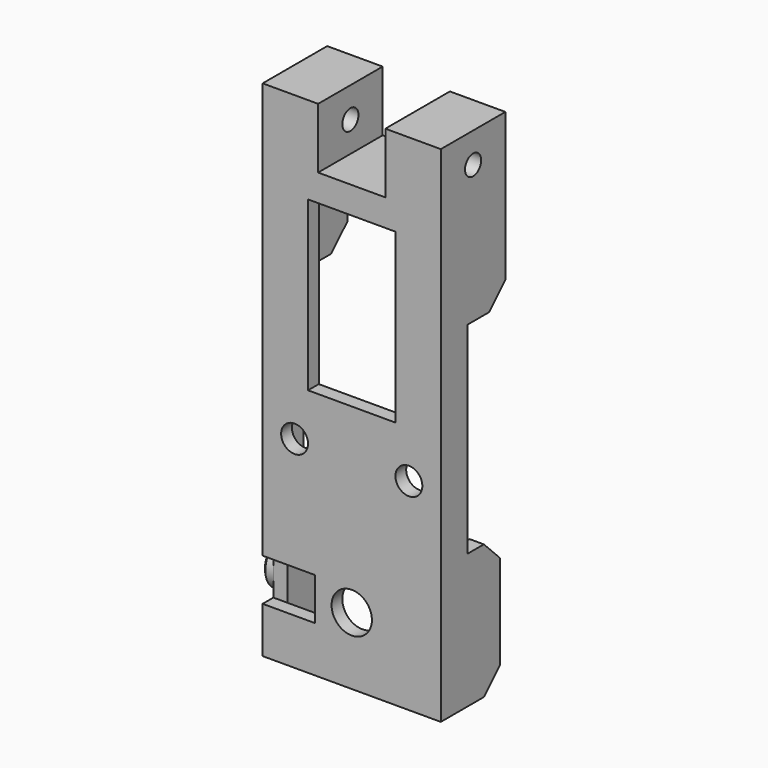
from build123d import *

# Parameters (mm, degrees)
SKETCH_R        = 2
SKETCH_R_2      = 3
PAD_DEPTH       = 2
SKETCH001_W     = 2.1
SKETCH001_H     = 20
PAD001_DEPTH    = 9
CHAMFER_SIZE    = 3
SKETCH002_W     = 13
SKETCH002_H     = 25
POCKET_DEPTH    = 2.5
SKETCH003_R     = 3.5
PAD002_DEPTH    = 1.5
SKETCH004_R     = 1.7
POCKET001_DEPTH = 3
CHAMFER001_SIZE = 0.2
CHAMFER002_SIZE = 0.3
SKETCH005_W     = 3
SKETCH005_H     = 15
PAD003_DEPTH    = 10
CHAMFER003_SIZE = 3
CHAMFER004_SIZE = 3
SKETCH006_W     = 2.1
SKETCH006_H     = 30
PAD004_DEPTH    = 3
SKETCH007_W     = 26.5
SKETCH007_H     = 12
PAD005_DEPTH    = 10
CHAMFER005_SIZE = 2
CHAMFER006_SIZE = 2
CHAMFER007_SIZE = 2
SKETCH008_W     = 10
SKETCH008_H     = 12
POCKET002_DEPTH = 9
SKETCH009_R     = 1.5
POCKET003_DEPTH = 26.501
SKETCH010_R     = 2.75
POCKET004_DEPTH = 1.7


with BuildPart() as part:
    # Sketch → Pad (new body)
    with BuildSketch(Plane.XZ):
        Polygon((-13.25, 55), (13.25, 55), (13.25, -10), (-13.25, -10), (-13.25, -3.15), (-5.5, -3.15), (-5.5, 0), (-5.5, 3.15), (-13.25, 3.15), align=None)
        with Locations((-8.5, 20)):
            Circle(SKETCH_R, mode=Mode.SUBTRACT)
        with Locations((8.5, 20)):
            Circle(SKETCH_R, mode=Mode.SUBTRACT)
        Circle(SKETCH_R_2, mode=Mode.SUBTRACT)
    extrude(amount=PAD_DEPTH)

    # Sketch001 (on Face13 of Pad) → Pad001 (join)
    with BuildSketch(Plane(origin=(0, 0, 0), x_dir=(1, 0, 0), z_dir=(0, 1, 0))):
        with Locations((-12.2, 0)):
            Rectangle(SKETCH001_W, SKETCH001_H)
        with Locations((12.2, 0)):
            Rectangle(SKETCH001_W, SKETCH001_H)
    extrude(amount=PAD001_DEPTH)

    # Chamfer
    chamfer_edges = [part.edges().sort_by_distance(p)[0] for p in [
        (-12.2, 9, -10),
        (12.2, 9, -10),
        (12.2, 9, 10),
        (-12.2, 9, 10),
    ]]
    chamfer(chamfer_edges, length=CHAMFER_SIZE)

    # Sketch002 (on Face4 of Chamfer) → Pocket (cut)
    with BuildSketch(Plane(origin=(0, 0, 0), x_dir=(1, 0, 0), z_dir=(0, 1, 0))):
        with Locations((0, -39.5)):
            Rectangle(SKETCH002_W, SKETCH002_H)
    extrude(amount=-POCKET_DEPTH, mode=Mode.SUBTRACT)

    # Sketch003 (on Face9 of Pocket) → Pad002 (join)
    with BuildSketch(Plane(origin=(-13.25, 0, 0), x_dir=(0, 0, -1), z_dir=(-1, 0, 0))):
        with Locations((0, -3.5)):
            Circle(SKETCH003_R)
    extrude(amount=PAD002_DEPTH)

    # Sketch004 (on Face35 of Pad002) → Pocket001 (cut)
    with BuildSketch(Plane(origin=(-14.75, 0, 0), x_dir=(0, 0, -1), z_dir=(-1, 0, 0))):
        with Locations((0, -3.5)):
            Circle(SKETCH004_R)
    extrude(amount=-POCKET001_DEPTH, mode=Mode.SUBTRACT)

    # Chamfer001
    chamfer001_edges = [part.edges().sort_by_distance(p)[0] for p in [
        (-14.75, 3.5, 1.7),
    ]]
    chamfer(chamfer001_edges, length=CHAMFER001_SIZE)

    # Chamfer002
    chamfer002_edges = [part.edges().sort_by_distance(p)[0] for p in [
        (-14.75, 3.5, 3.5),
    ]]
    chamfer(chamfer002_edges, length=CHAMFER002_SIZE)

    # Sketch005 (on Face17 of Chamfer002) → Pad003 (join)
    with BuildSketch(Plane(origin=(0, 0, 0), x_dir=(1, 0, 0), z_dir=(0, 1, 0))):
        with Locations((-11.75, -47.5)):
            Rectangle(SKETCH005_W, SKETCH005_H)
        with Locations((11.75, -47.5)):
            Rectangle(SKETCH005_W, SKETCH005_H)
    extrude(amount=PAD003_DEPTH)

    # Chamfer003
    chamfer003_edges = [part.edges().sort_by_distance(p)[0] for p in [
        (11.75, 10, 40),
    ]]
    chamfer(chamfer003_edges, length=CHAMFER003_SIZE)

    # Chamfer004
    chamfer004_edges = [part.edges().sort_by_distance(p)[0] for p in [
        (-11.75, 10, 40),
    ]]
    chamfer(chamfer004_edges, length=CHAMFER004_SIZE)

    # Sketch006 (on Face4 of Chamfer004) → Pad004 (join)
    with BuildSketch(Plane(origin=(0, 0, 0), x_dir=(1, 0, 0), z_dir=(0, 1, 0))):
        with Locations((-12.2, -25)):
            Rectangle(SKETCH006_W, SKETCH006_H)
        with Locations((12.2, -25)):
            Rectangle(SKETCH006_W, SKETCH006_H)
    extrude(amount=PAD004_DEPTH)

    # Sketch007 (on Face17 of Pad004) → Pad005 (join)
    with BuildSketch(Plane(origin=(0, 0, 55), x_dir=(-1, 0, 0), z_dir=(0, 0, 1))):
        with Locations((0, -4)):
            Rectangle(SKETCH007_W, SKETCH007_H)
    extrude(amount=PAD005_DEPTH)

    # Chamfer005
    chamfer005_edges = [part.edges().sort_by_distance(p)[0] for p in [
        (-10.25, 5, 55),
    ]]
    chamfer(chamfer005_edges, length=CHAMFER005_SIZE)

    # Chamfer006
    chamfer006_edges = [part.edges().sort_by_distance(p)[0] for p in [
        (10.25, 5, 55),
    ]]
    chamfer(chamfer006_edges, length=CHAMFER006_SIZE)

    # Chamfer007
    chamfer007_edges = [part.edges().sort_by_distance(p)[0] for p in [
        (0, 0, 55),
    ]]
    chamfer(chamfer007_edges, length=CHAMFER007_SIZE)

    # Sketch008 (on Face57 of Chamfer007) → Pocket002 (cut)
    with BuildSketch(Plane(origin=(0, 0, 65), x_dir=(-1, 0, 0), z_dir=(0, 0, 1))):
        with Locations((0, -4)):
            Rectangle(SKETCH008_W, SKETCH008_H)
    extrude(amount=-POCKET002_DEPTH, mode=Mode.SUBTRACT)

    # Sketch009 (on Face51 of Pocket002) → Pocket003 (cut, through all)
    with BuildSketch(Plane(origin=(-13.25, 0, 0), x_dir=(0, 0, -1), z_dir=(-1, 0, 0))):
        with Locations((-60.5, -4)):
            Circle(SKETCH009_R)
    extrude(amount=-POCKET003_DEPTH, mode=Mode.SUBTRACT)

    # Sketch010 (on Face51 of Pocket003) → Pocket004 (cut)
    with BuildSketch(Plane(origin=(-13.25, 0, 0), x_dir=(0, 0, -1), z_dir=(-1, 0, 0))):
        with Locations((-60.5, -4)):
            Circle(SKETCH010_R)
    extrude(amount=-POCKET004_DEPTH, mode=Mode.SUBTRACT)


solid = part.part
